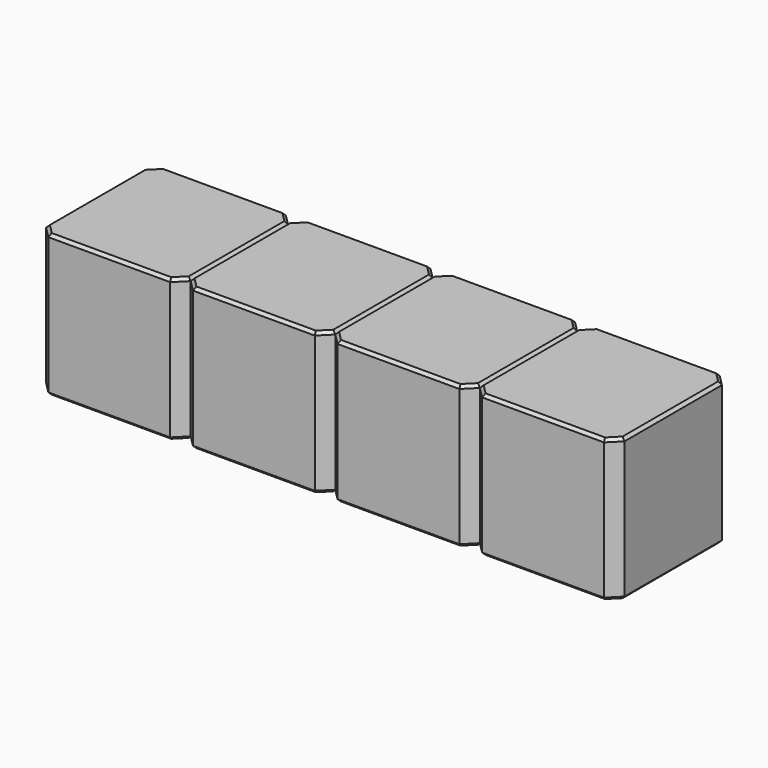
from build123d import *

# Parameters (mm, degrees)
SKETCH223_W      = 2.54
SKETCH223_H      = 2.54
PAD078_DEPTH     = 2.5
CHAMFER033_SIZE  = 0.2
CHAMFER035_SIZE  = 0.05
ARRAY017_X_COUNT = 4
ARRAY017_X_PITCH = 2.54


with BuildPart() as array017:
    # Sketch223 → Pad078 (new body)
    with BuildSketch(Plane.XY):
        Rectangle(SKETCH223_W, SKETCH223_H)
    extrude(amount=PAD078_DEPTH)

    # Chamfer033
    chamfer033_edges = [array017.edges().sort_by_distance(p)[0] for p in [
        (1.27, -1.27, 1.25),
        (-1.27, -1.27, 1.25),
        (1.27, 1.27, 1.25),
        (-1.27, 1.27, 1.25),
    ]]
    chamfer(chamfer033_edges, length=CHAMFER033_SIZE)

    # Chamfer035
    chamfer035_edges = [array017.edges().sort_by_distance(p)[0] for p in [
        (0, -1.27, 2.5),
        (-1.17, -1.17, 2.5),
        (1.17, -1.17, 2.5),
        (-1.27, 0, 2.5),
        (1.27, 0, 2.5),
        (-1.17, 1.17, 2.5),
        (1.17, 1.17, 2.5),
        (0, 1.27, 2.5),
        (0, -1.27, 0),
        (-1.17, -1.17, 0),
        (1.17, -1.17, 0),
        (-1.27, 0, 0),
        (1.27, 0, 0),
        (-1.17, 1.17, 0),
        (1.17, 1.17, 0),
        (0, 1.27, 0),
    ]]
    chamfer(chamfer035_edges, length=CHAMFER035_SIZE)


with BuildPart() as array017_copy1:
    # Array017 X: instance of Array017
    add(array017.part.moved(Location(Vector(1, 0, 0) * (1 * ARRAY017_X_PITCH))))


with BuildPart() as array017_copy2:
    # Array017 X: instance of Array017
    add(array017.part.moved(Location(Vector(1, 0, 0) * (2 * ARRAY017_X_PITCH))))


with BuildPart() as array017_copy3:
    # Array017 X: instance of Array017
    add(array017.part.moved(Location(Vector(1, 0, 0) * (3 * ARRAY017_X_PITCH))))


solid = Compound([array017.part, array017_copy1.part, array017_copy2.part, array017_copy3.part])
